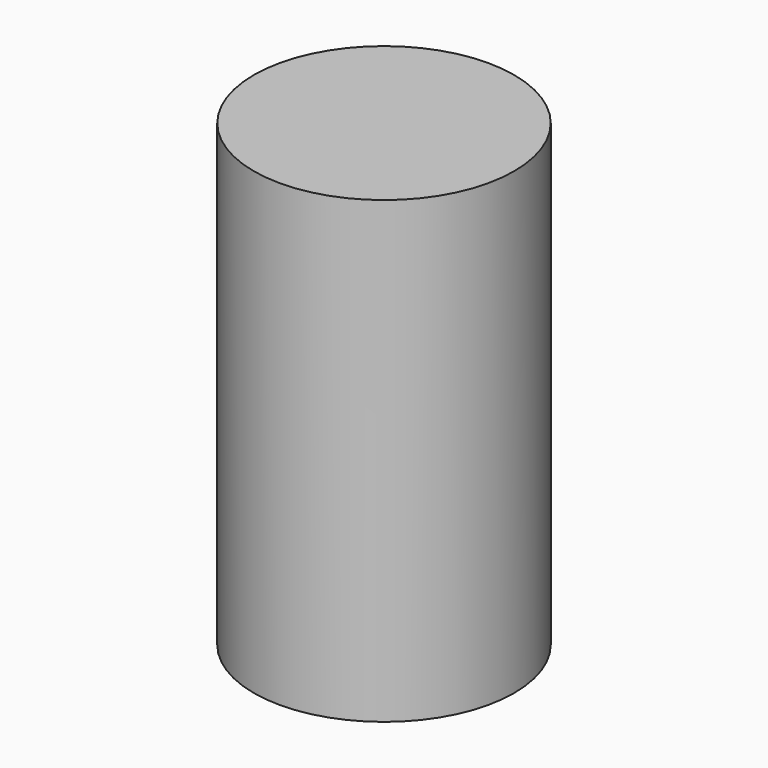
from build123d import *

# Parameters (mm, degrees)
F0_R      = 35.543794
F1_DEPTH  = 100
F2_R      = 16.15749
F3_DEPTH  = 25.4
F1_FACE_R = 35.543794
F4_DEPTH  = 25.4


with BuildPart() as f1:
    # F0 (on Top) → F1 (new body)
    with BuildSketch(Plane.XY):
        with Locations((0, 0.879988)):
            Circle(F0_R)
    extrude(amount=F1_DEPTH)

    # F2 (on face) → F3 (join)
    with BuildSketch(Plane.XY.offset(100)):
        Circle(F2_R)
    extrude(amount=-F3_DEPTH)

    # F1_face (on face) → F4 (join)
    with BuildSketch(Plane(origin=(0, 0.879988, 100), x_dir=(1, 0, 0), z_dir=(0, 0, 1))):
        Circle(F1_FACE_R)
    extrude(amount=F4_DEPTH)


solid = f1.part
